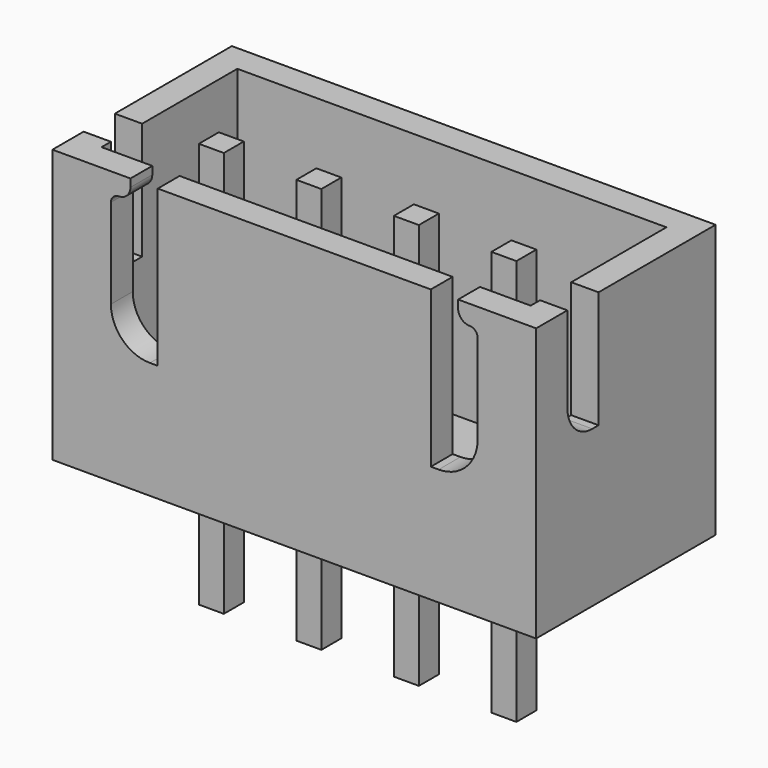
from build123d import *

# Parameters (mm, degrees)
F0_W          = 12.4
F0_H          = 5.75
F0_W_2        = 11
F0_H_2        = 4.35
F0_W_3        = 0.64
F0_H_3        = 0.64
F1_DEPTH      = 1
F2_DEPTH      = 7
F4_DEPTH      = 12.5
F6_DEPTH      = 0.7
F7_DEPTH      = 7
F7_DEPTH_BACK = 3.4


with BuildPart() as f1:
    # F0 (on Top) → F1 (new body)
    with BuildSketch(Plane.XY):
        with Locations((6.2, 2.875)):
            Rectangle(F0_W, F0_H)
        with Locations((6.2, 2.875)):
            Rectangle(F0_W_2, F0_H_2, mode=Mode.SUBTRACT)
        with Locations((6.2, 2.875)):
            Rectangle(F0_W_2, F0_H_2)
        with Locations((2.45, 2.35)):
            Rectangle(F0_W_3, F0_H_3, mode=Mode.SUBTRACT)
        with Locations((4.95, 2.35)):
            Rectangle(F0_W_3, F0_H_3, mode=Mode.SUBTRACT)
        with Locations((7.45, 2.35)):
            Rectangle(F0_W_3, F0_H_3, mode=Mode.SUBTRACT)
        with Locations((9.95, 2.35)):
            Rectangle(F0_W_3, F0_H_3, mode=Mode.SUBTRACT)
    extrude(amount=F1_DEPTH)

    # F0 (on Top) → F2 (join)
    with BuildSketch(Plane.XY):
        with Locations((6.2, 2.875)):
            Rectangle(F0_W, F0_H)
        with Locations((6.2, 2.875)):
            Rectangle(F0_W_2, F0_H_2, mode=Mode.SUBTRACT)
    extrude(amount=F2_DEPTH)

    # F3 (on face) → F4 (cut)
    with BuildSketch(Plane.YZ.offset(12.4)):
        with BuildLine():
            Line((2, 7), (1, 7))
            Line((1, 7), (1, 4.8))
            ThreePointArc((1, 4.8), (1.2343145751, 4.2343145751), (1.8, 4))
            Line((1.8, 4), (2, 4))
            Line((2, 4), (2, 7))
        make_face()
    extrude(amount=-F4_DEPTH, mode=Mode.SUBTRACT)

    # F5 (on face) → F6 (cut)
    with BuildSketch(Plane.XZ):
        with BuildLine():
            Line((2.7, 3), (2.7, 7))
            Line((2.7, 7), (2, 7))
            Line((2, 7), (2, 6.8))
            ThreePointArc((2, 6.8), (1.9121320344, 6.5878679656), (1.7, 6.5))
            ThreePointArc((1.7, 6.5), (1.5585786438, 6.4414213562), (1.5, 6.3))
            Line((1.5, 6.3), (1.5, 4))
            ThreePointArc((1.5, 4), (1.7928932188, 3.2928932188), (2.5, 3))
            Line((2.5, 3), (2.7, 3))
        make_face()
        with BuildLine():
            Line((10.4, 7), (9.7, 7))
            Line((9.7, 7), (9.7, 3))
            Line((9.7, 3), (9.9, 3))
            ThreePointArc((9.9, 3), (10.6071067812, 3.2928932188), (10.9, 4))
            Line((10.9, 4), (10.9, 6.3))
            ThreePointArc((10.9, 6.3), (10.8414213562, 6.4414213562), (10.7, 6.5))
            ThreePointArc((10.7, 6.5), (10.4878679656, 6.5878679656), (10.4, 6.8))
            Line((10.4, 6.8), (10.4, 7))
        make_face()
    extrude(amount=-F6_DEPTH, mode=Mode.SUBTRACT)

    # F0 (on Top) → F7 (join, two sides)
    with BuildSketch(Plane.XY) as f7_sk:
        with Locations((2.45, 2.35)):
            Rectangle(F0_W_3, F0_H_3)
        with Locations((4.95, 2.35)):
            Rectangle(F0_W_3, F0_H_3)
        with Locations((7.45, 2.35)):
            Rectangle(F0_W_3, F0_H_3)
        with Locations((9.95, 2.35)):
            Rectangle(F0_W_3, F0_H_3)
    extrude(amount=F7_DEPTH)
    extrude(f7_sk.sketch, amount=-F7_DEPTH_BACK)


solid = f1.part
